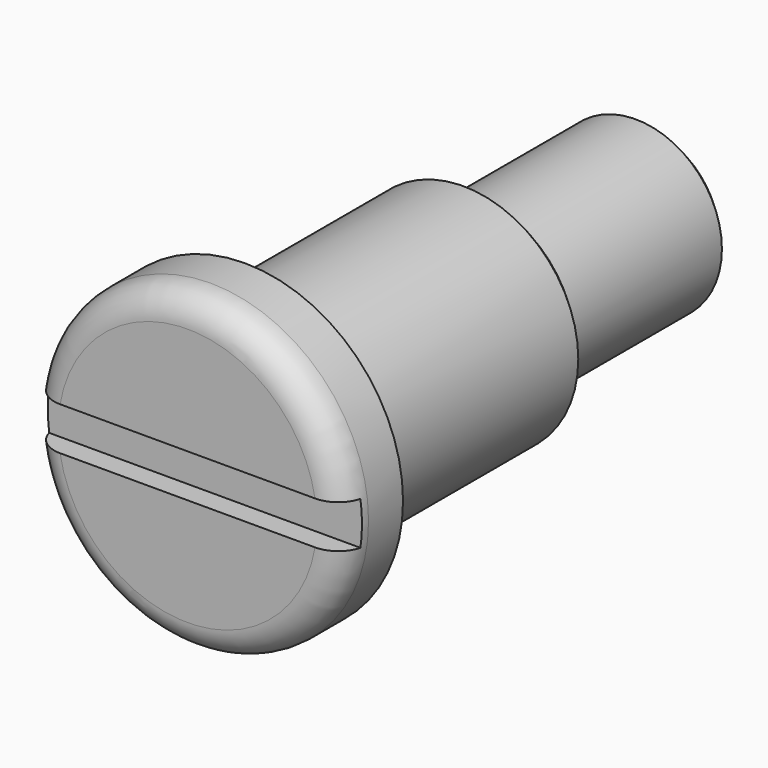
from build123d import *

# Parameters (mm, degrees)
F0_R      = 11
F1_DEPTH  = 5
F2_R      = 2
F3_R      = 8
F3_R_2    = 6
F4_DEPTH  = 20
F4_FACE_R = 6
F5_DEPTH  = 35
F6_SIZE2  = 1
F6_SIZE   = 1
F7_W      = 1.5
F7_H      = 3
F8_DEPTH  = 12.5


with BuildPart() as f1:
    # F0 (on Front) → F1 (new body)
    with BuildSketch(Plane.XZ):
        Circle(F0_R)
    extrude(amount=F1_DEPTH)

    # F2
    f2_edges = [f1.edges().sort_by_distance(p)[0] for p in [
        (-11, -5, 0),
    ]]
    fillet(f2_edges, radius=F2_R)

    # F3 (on Front) → F4 (join)
    with BuildSketch(Plane.XZ):
        Circle(F3_R)
        Circle(F3_R_2, mode=Mode.SUBTRACT)
    extrude(amount=-F4_DEPTH)

    # F4_face (on face) → F5 (join)
    with BuildSketch(Plane(origin=(0, 0, 0), x_dir=(1, 0, 0), z_dir=(0, 1, 0))):
        Circle(F4_FACE_R)
    extrude(amount=F5_DEPTH)

    # F6
    f6_edges = [f1.edges().sort_by_distance(p)[0] for p in [
        (-6, 35, 0),
        (-8, 20, 0),
    ]]
    chamfer(f6_edges, length=F6_SIZE, length2=F6_SIZE2)

    # F7 (on Right) → F8 (cut, symmetric)
    with BuildSketch(Plane.YZ):
        with Locations((-4.25, 0)):
            Rectangle(F7_W, F7_H)
    extrude(amount=F8_DEPTH, both=True, mode=Mode.SUBTRACT)


solid = f1.part
